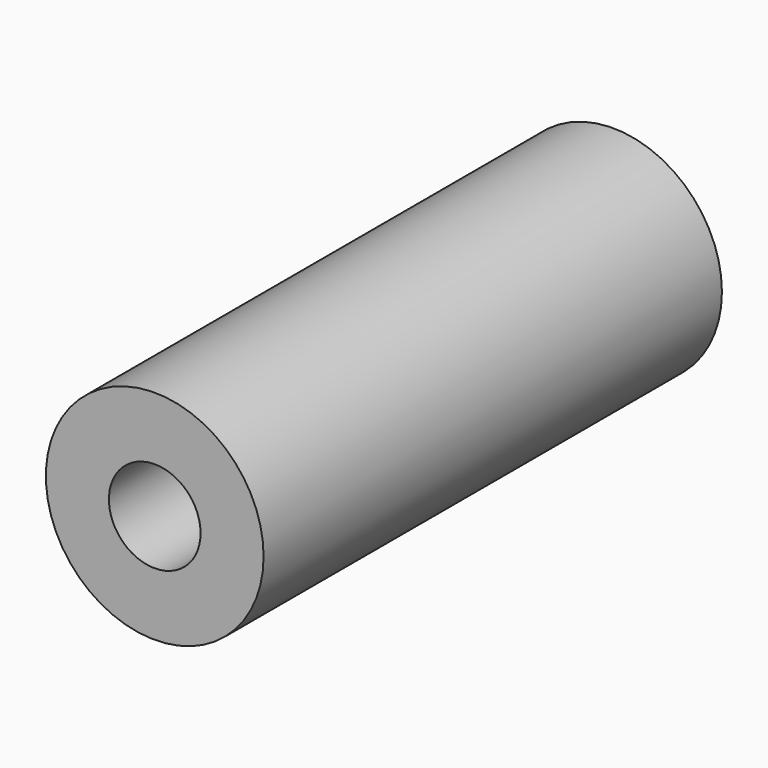
from build123d import *

# Parameters (mm, degrees)
F1_R     = 4.75
F1_R_2   = 2
F2_DEPTH = 25


with BuildPart() as f2:
    # F1 (on face) → F2 (new body)
    with BuildSketch(Plane.XZ):
        Circle(F1_R)
        Circle(F1_R_2, mode=Mode.SUBTRACT)
    extrude(amount=F2_DEPTH)


solid = f2.part
